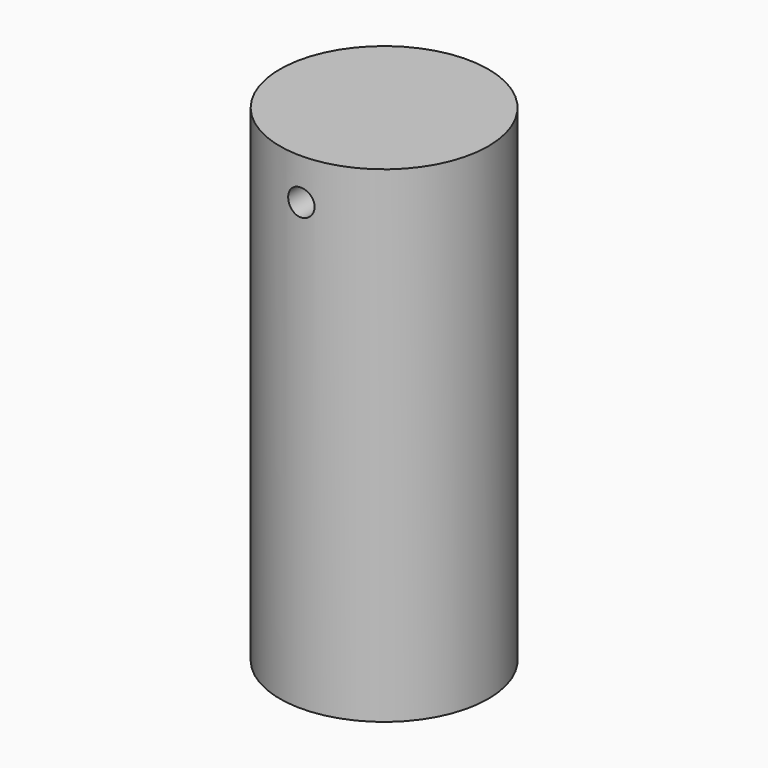
from build123d import *

# Parameters (mm, degrees)
F0_R     = 75
F1_DEPTH = 350
F2_R     = 9.5
F3_DEPTH = 117


with BuildPart() as f1:
    # F0 (on Top) → F1 (new body)
    with BuildSketch(Plane.XY):
        Circle(F0_R)
    extrude(amount=F1_DEPTH)

    # F2 (on Front) → F3 (cut, symmetric)
    with BuildSketch(Plane.XZ):
        with Locations((0, 320.5)):
            Circle(F2_R)
    extrude(amount=F3_DEPTH, both=True, mode=Mode.SUBTRACT)


solid = f1.part
